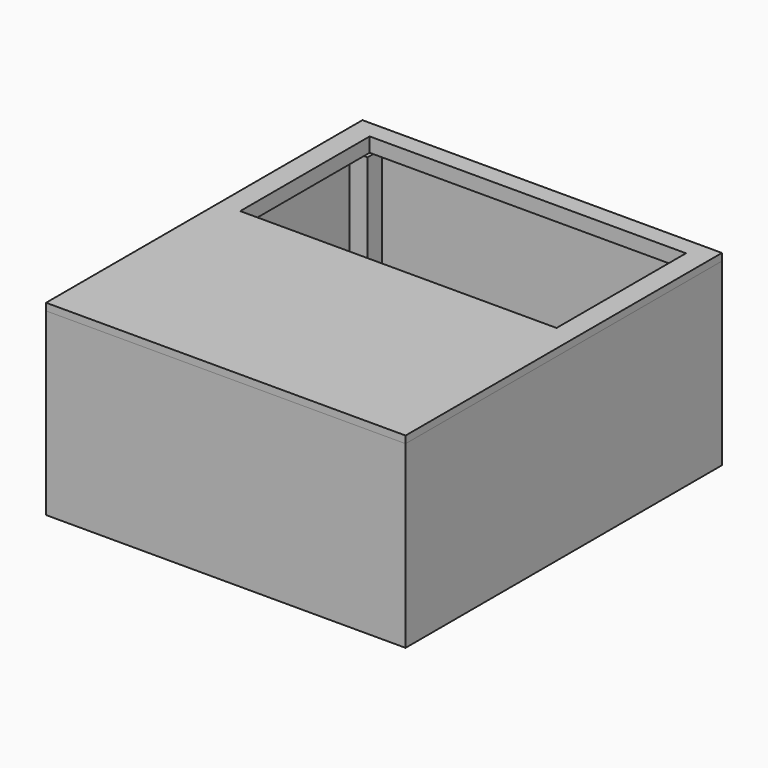
from build123d import *

# Parameters (mm, degrees)
SKETCH_W        = 100
SKETCH_H        = 110
PAD_DEPTH       = 50
SKETCH001_W     = 98
SKETCH001_H     = 108
POCKET_DEPTH    = 2
POCKET001_DEPTH = 46
SKETCH003_W     = 52
SKETCH003_H     = 58.5
POCKET002_DEPTH = 5
SKETCH004_W     = 95
SKETCH004_H     = 44
SKETCH004_W_2   = 88.5
SKETCH004_H_2   = 40
PAD001_DEPTH    = 5
SKETCH006_R     = 1
POCKET003_DEPTH = 5
SKETCH005_W     = 100
SKETCH005_H     = 110
PAD002_DEPTH    = 2
SKETCH007_W     = 88
SKETCH007_H     = 45
POCKET004_DEPTH = 5


with BuildPart() as pad001:
    # Sketch → Pad (new body)
    with BuildSketch(Plane.XY):
        Rectangle(SKETCH_W, SKETCH_H)
    extrude(amount=PAD_DEPTH)

    # Sketch001 → Pocket (cut)
    with BuildSketch(Plane.XY.offset(50)):
        Rectangle(SKETCH001_W, SKETCH001_H)
    extrude(amount=-POCKET_DEPTH, mode=Mode.SUBTRACT)

    # Sketch002 → Pocket001 (cut)
    with BuildSketch(Plane.XY.offset(48)):
        Polygon((-43, 53), (43, 53), (43, 48), (48, 48), (48, 2.5), (43, 2.5), (43, -2.5), (48, -2.5), (48, -48), (43, -48), (43, -53), (-43, -53), (-43, -48), (-48, -48), (-48, -2.5), (-43, -2.5), (-43, 2.5), (-48, 2.5), (-48, 48), (-43, 48), align=None)
    extrude(amount=-POCKET001_DEPTH, mode=Mode.SUBTRACT)

    # Sketch003 → Pocket002 (cut)
    with BuildSketch(Plane.XY.offset(2)):
        with Locations((0, 23.75)):
            Rectangle(SKETCH003_W, SKETCH003_H)
    extrude(amount=-POCKET002_DEPTH, mode=Mode.SUBTRACT)

    # Sketch004 → Pad001 (new body)
    with BuildSketch(Plane.XY.offset(2)):
        with Locations((0, -28)):
            Rectangle(SKETCH004_W, SKETCH004_H)
        with Locations((0, -28)):
            Rectangle(SKETCH004_W_2, SKETCH004_H_2, mode=Mode.SUBTRACT)
    extrude(amount=PAD001_DEPTH)


with BuildPart() as pocket003:
    # Pocket003 base: copy of Pad001
    add(pad001.part)

    # Sketch006 → Pocket003 (cut)
    with BuildSketch(Plane.XY.offset(48)):
        with Locations((-46, 51)):
            Circle(SKETCH006_R)
        with Locations((-46, -51)):
            Circle(SKETCH006_R)
        with Locations((46, 51)):
            Circle(SKETCH006_R)
        with Locations((46, -51)):
            Circle(SKETCH006_R)
    extrude(amount=-POCKET003_DEPTH, mode=Mode.SUBTRACT)


with BuildPart() as pocket004:
    # Pad002 base: copy of Pad001
    add(pad001.part)

    # Sketch005 → Pad002 (new body, symmetric)
    with BuildSketch(Plane.XY.offset(50)):
        Rectangle(SKETCH005_W, SKETCH005_H)
    extrude(amount=PAD002_DEPTH, both=True)

    # Cut: cut Pad001
    add(pad001.part, mode=Mode.SUBTRACT)

    # Sketch007 → Pocket004 (cut)
    with BuildSketch(Plane.XY.offset(52)):
        with Locations((0, 27.5)):
            Rectangle(SKETCH007_W, SKETCH007_H)
    extrude(amount=-POCKET004_DEPTH, mode=Mode.SUBTRACT)


solid = Compound([pocket003.part, pocket004.part])
